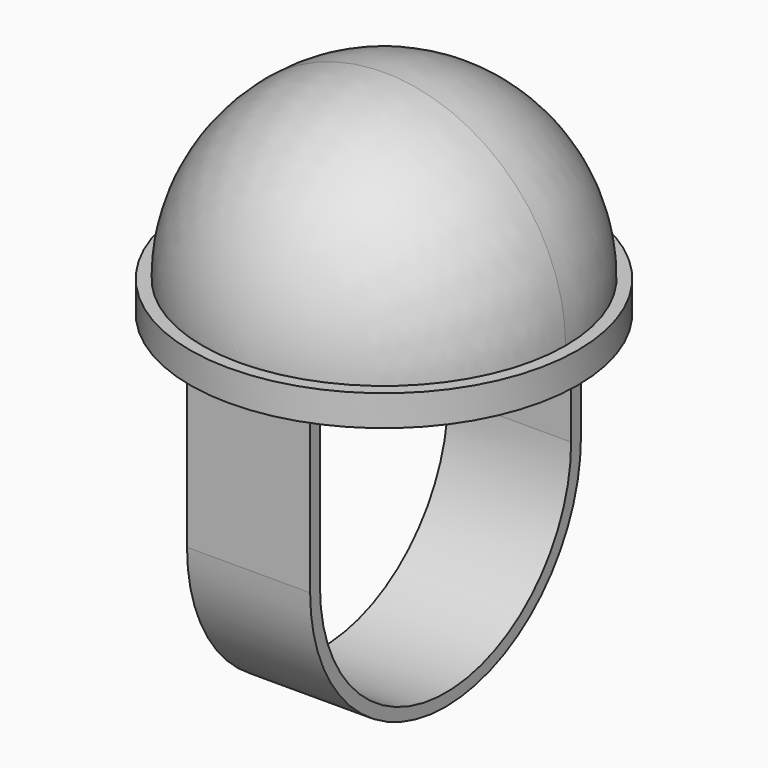
from build123d import *

# Parameters (mm, degrees)
F1_ANGLE = 180
F2_R     = 31.5
F3_DEPTH = 5
F4_W     = 20
F4_H     = 2
F5_DEPTH = 25.5
F6_W     = 20
F6_H     = 2
F7_ANGLE = 180


with BuildPart() as f1:
    # F0 (on Top) → F1 (revolve)
    with BuildSketch(Plane.XY):
        with BuildLine():
            ThreePointArc((0, -29.5), (20.85965, -20.85965), (29.5, 0))
            ThreePointArc((29.5, 0), (20.85965, 20.85965), (0, 29.5))
            Line((0, 29.5), (0, -29.5))
        make_face()
    revolve(axis=Axis((0, 0, 0), (0, -1, 0)), revolution_arc=F1_ANGLE)

    # F2 (on face) → F3 (join)
    with BuildSketch(Plane(origin=(0, 0, 0), x_dir=(1, 0, 0), z_dir=(0, 0, -1))):
        Circle(F2_R)
    extrude(amount=F3_DEPTH)

    # F4 (on face) → F5 (join)
    with BuildSketch(Plane(origin=(0, 0, -5), x_dir=(1, 0, 0), z_dir=(0, 0, -1))):
        with Locations((0, 26.5)):
            Rectangle(F4_W, F4_H)
        with Locations((0, -26.5)):
            Rectangle(F4_W, F4_H)
    extrude(amount=F5_DEPTH)

    # F6 (on face) → F7 (revolve)
    with BuildSketch(Plane(origin=(0, 0, -30.5), x_dir=(1, 0, 0), z_dir=(0, 0, -1))):
        with Locations((0, 26.5)):
            Rectangle(F6_W, F6_H)
    revolve(axis=Axis((7.741019, 0, -30.5), (1, 0, 0)), revolution_arc=F7_ANGLE)


solid = f1.part
